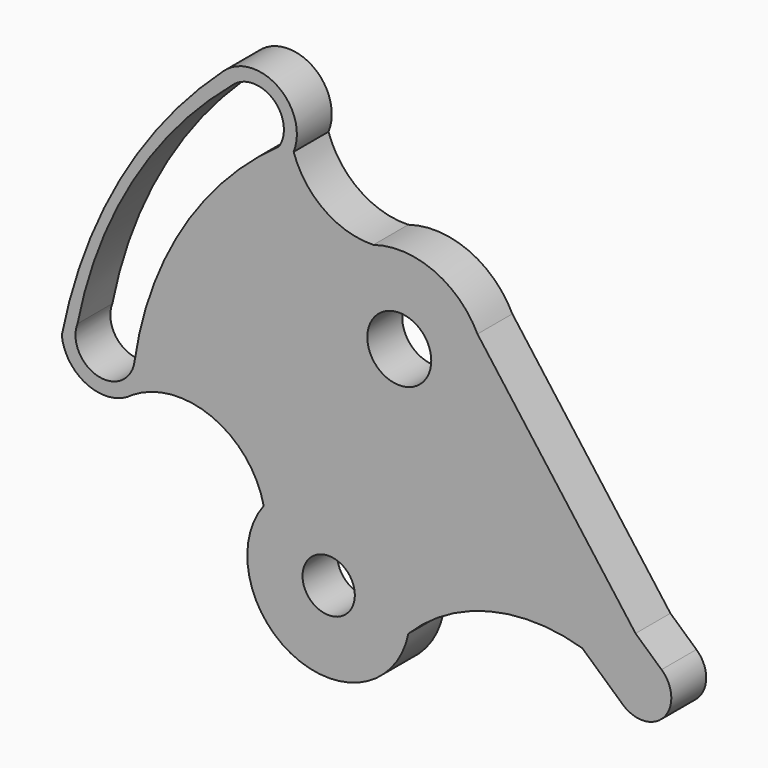
from build123d import *

# Parameters (mm, degrees)
F0_R     = 42
F0_R_2   = 18
F0_R_3   = 22
F1_DEPTH = 30


with BuildPart() as f1:
    # F0 (on Front) → F1 (new body)
    with BuildSketch(Plane.XZ):
        with BuildLine():
            ThreePointArc((-44.7192799077, 33.7073583144), (17.7724551647, 53.1049888185), (56, 0))
            ThreePointArc((56, 0), (55.7116909696, -5.6751642535), (54.8497325249, -11.2918927533))
            ThreePointArc((54.8497325249, -11.2918927533), (110.5331929325, 20.3137275723), (174.5428054092, 18.7864719529))
            Line((174.5428054092, 18.7864719529), (146.6748744538, 43.8788696913))
            ThreePointArc((146.6748744538, 43.8788696913), (145.1397401617, 72.0632091322), (173.3175355109, 73.714110786))
            ThreePointArc((173.3175355109, 73.714110786), (173.4400987081, 73.6046627104), (173.5617585583, 73.4942113664))
            Line((173.5617585583, 73.4942113664), (211.154662648, 39.6454084871))
            Line((211.154662648, 39.6454084871), (102.3891728687, 185.6668285421))
            ThreePointArc((102.3891728687, 185.6668285421), (72.2335487758, 214.2546452007), (30.7360200233, 216.3947464073))
            ThreePointArc((30.7360200233, 216.3947464073), (-3.0827094694, 226.523329506), (-24.1217388998, 254.8721196162))
            ThreePointArc((-24.1217388998, 254.8721196162), (-34.9192028244, 290.9697617892), (-72.4833678821, 288.0442701771))
            ThreePointArc((-72.4833678821, 288.0442701771), (-143.8401450983, 198.8837266105), (-183.6697161198, 91.8557047844))
            ThreePointArc((-183.6697161198, 91.8557047844), (-165.517237967, 67.3841683094), (-135.3160744668, 71.4163245279))
            ThreePointArc((-135.3160744668, 71.4163245279), (-80.2316542685, 76.0730218365), (-44.7192799077, 33.7073583144))
        make_face()
        with BuildLine():
            ThreePointArc((-133.6669272736, 91.8557047844), (-159.1489166935, 75.3040608818), (-172.8638245024, 102.418448289))
            ThreePointArc((-172.8638245024, 102.418448289), (-135.0570069211, 200.8640304289), (-66.7200441302, 281.1818218266))
            ThreePointArc((-66.7200441302, 281.1818218266), (-38.6538028976, 282.6121701059), (-34.1538704583, 254.8721196162))
            ThreePointArc((-34.1538704583, 254.8721196162), (-100.5467871276, 183.8087325082), (-133.5963961624, 92.3442710286))
            ThreePointArc((-133.5963961624, 92.3442710286), (-133.6301850572, 92.0997747306), (-133.6669272736, 91.8557047844))
        make_face(mode=Mode.SUBTRACT)
        with Locations((48.5857627593, 159.1113571547)):
            Circle(F0_R, mode=Mode.SUBTRACT)
        with BuildLine():
            ThreePointArc((54.8497325249, -11.2918927533), (55.7116909696, -5.6751642535), (56, 0))
            ThreePointArc((56, 0), (17.7724551647, 53.1049888185), (-44.7192799077, 33.7073583144))
            ThreePointArc((-44.7192799077, 33.7073583144), (-23.0627332881, -51.0304843528), (54.8497325249, -11.2918927533))
        make_face()
        Circle(F0_R_2, mode=Mode.SUBTRACT)
        with Locations((48.5857627593, 159.1113571547)):
            Circle(F0_R)
        with Locations((48.5857627593, 159.1113571547)):
            Circle(F0_R_3, mode=Mode.SUBTRACT)
        with BuildLine():
            Line((146.6748744538, 43.8788696913), (174.5428054092, 18.7864719529))
            Line((174.5428054092, 18.7864719529), (202.4107363646, -6.3059257856))
            ThreePointArc((202.4107363646, -6.3059257856), (230.711094911, -4.7644722073), (229.0533974217, 23.5293153091))
            Line((229.0533974217, 23.5293153091), (211.154662648, 39.6454084871))
            Line((211.154662648, 39.6454084871), (173.5617585583, 73.4942113664))
            Line((173.5617585583, 73.4942113664), (173.3175355109, 73.714110786))
            ThreePointArc((173.3175355109, 73.714110786), (145.1397401617, 72.0632091322), (146.6748744538, 43.8788696913))
        make_face()
    extrude(amount=F1_DEPTH)


solid = f1.part
